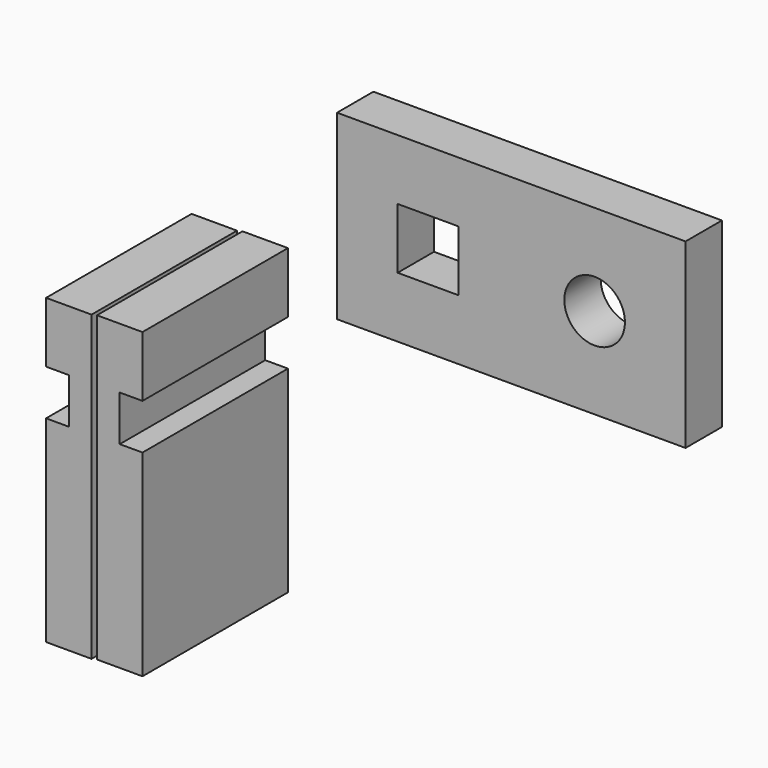
from build123d import *

# Parameters (mm, degrees)
F0_W     = 146.05
F0_H     = 76.2
F0_W_2   = 25.4
F0_H_2   = 25.4
F0_R     = 12.7
F1_DEPTH = 19.05
F3_DEPTH = 76.2
F5_DEPTH = 76.2


with BuildPart() as f1:
    # F0 (on Front) → F1 (new body)
    with BuildSketch(Plane.XZ):
        with Locations((73.025, 38.1)):
            Rectangle(F0_W, F0_H)
        with Locations((38.1, 38.1)):
            Rectangle(F0_W_2, F0_H_2, mode=Mode.SUBTRACT)
        with Locations((107.95, 38.1)):
            Circle(F0_R, mode=Mode.SUBTRACT)
    extrude(amount=F1_DEPTH)


with BuildPart() as f3:
    # F2 (on Front) → F3 (new body)
    with BuildSketch(Plane.XZ):
        Polygon((-76.2, 6.35), (-76.2, -19.05), (-66.675, -19.05), (-66.675, -38.1), (-76.2, -38.1), (-76.2, -120.65), (-57.15, -120.65), (-57.15, 6.35), align=None)
    extrude(amount=F3_DEPTH)


with BuildPart() as f5:
    # F4 (on Front) → F5 (new body)
    with BuildSketch(Plane.XZ):
        Polygon((-35.805511, 6.855044), (-54.855511, 6.855044), (-54.855511, -120.144956), (-35.805511, -120.144956), (-35.805511, -37.594956), (-45.330511, -37.594956), (-45.330511, -18.544956), (-35.805511, -18.544956), align=None)
    extrude(amount=F5_DEPTH)


solid = Compound([f1.part, f3.part, f5.part])
